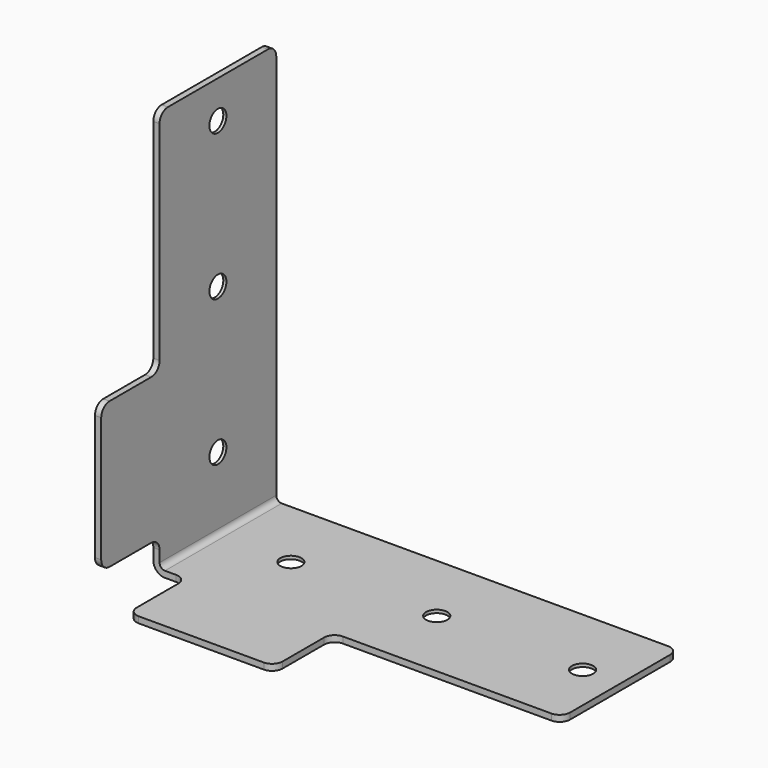
from build123d import *

# Parameters (mm, degrees)
F2_DEPTH              = 70
F3_R                  = 5.6
F4_R                  = 2.6
F5_W                  = 70
F5_H                  = 3
F5_W_2                = 3
F5_H_2                = 70
F6_DEPTH              = 35
F7_R                  = 5
F10_D                 = 10.2
F10_CBORE_D           = 17
F10_CBORE_DEPTH       = 1.5
F10_ON_F9_D           = 10.2
F10_ON_F9_CBORE_D     = 17
F10_ON_F9_CBORE_DEPTH = 1.5


with BuildPart() as f2:
    # F1 (on Front) → F2 (new body)
    with BuildSketch(Plane.XZ):
        Polygon((3, 196), (0, 196), (0, 0), (196, 0), (196, 3), (3, 3), align=None)
    extrude(amount=-F2_DEPTH)

    # F3
    f3_edges = [f2.edges().sort_by_distance(p)[0] for p in [
        (0, 35, 0),
    ]]
    fillet(f3_edges, radius=F3_R)

    # F4
    f4_edges = [f2.edges().sort_by_distance(p)[0] for p in [
        (3, 35, 3),
    ]]
    fillet(f4_edges, radius=F4_R)

    # F5 (on face) → F6 (join)
    with BuildSketch(Plane.XZ):
        with Locations((51, 1.5)):
            Rectangle(F5_W, F5_H)
        with Locations((1.5, 51)):
            Rectangle(F5_W_2, F5_H_2)
    extrude(amount=F6_DEPTH)

    # F7
    f7_edges = [f2.edges().sort_by_distance(p)[0] for p in [
        (16, 0, 1.5),
        (16, -35, 1.5),
        (86, -35, 1.5),
        (86, 0, 1.5),
        (1.5, -35, 16),
        (1.5, -35, 86),
        (1.5, 0, 16),
        (1.5, 0, 86),
        (1.5, 0, 196),
        (1.5, 70, 196),
        (196, 70, 1.5),
        (196, 0, 1.5),
    ]]
    fillet(f7_edges, radius=F7_R)

    # F10 (through all)
    with Locations(Plane(origin=(0, 0, 0), x_dir=(1, 0, 0), z_dir=(0, 0, -1))):
        with Locations((38, -35), (108, -35), (178, -35)):
            CounterBoreHole(F10_D / 2, F10_CBORE_D / 2, F10_CBORE_DEPTH)

    # F10 on F9 (through all)
    with Locations(Plane(origin=(0, 0, 0), x_dir=(0, -1, 0), z_dir=(-1, 0, 0))):
        with Locations((-35, 178), (-35, 108), (-35, 38)):
            CounterBoreHole(F10_ON_F9_D / 2, F10_ON_F9_CBORE_D / 2, F10_ON_F9_CBORE_DEPTH)


solid = f2.part
